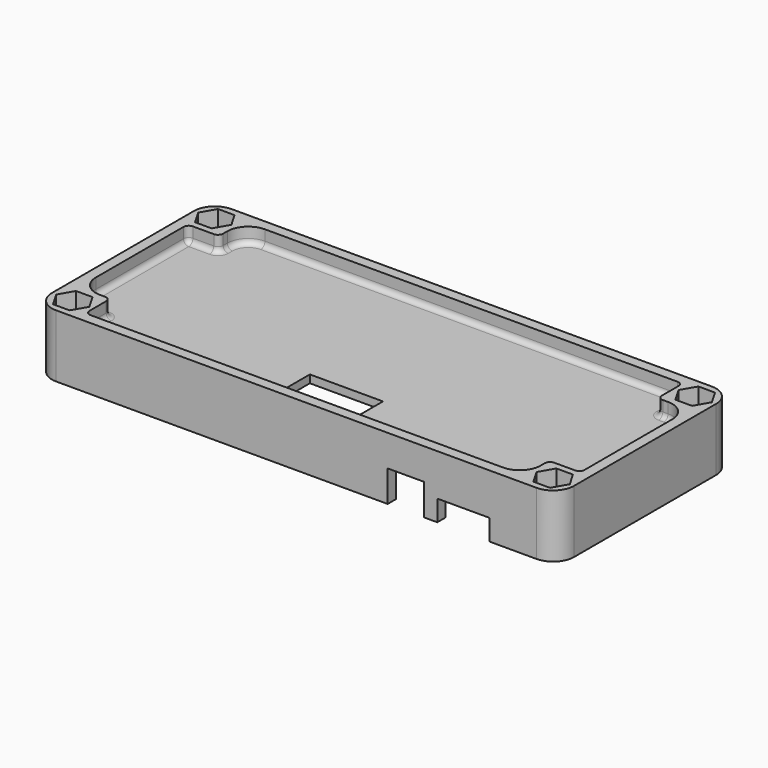
from build123d import *

# Parameters (mm, degrees)
SKETCH_W        = 100
SKETCH_H        = 42
PAD_DEPTH       = 12
POCKET_DEPTH    = 3
POCKET001_DEPTH = 7.5
SKETCH002_W     = 14
SKETCH002_H     = 7
POCKET002_DEPTH = 5
SKETCH004_W     = 7
SKETCH004_H     = 6
POCKET003_DEPTH = 5
SKETCH005_W     = 10
SKETCH005_H     = 4
POCKET004_DEPTH = 5
FILLET_R        = 4
FILLET001_R     = 4
FILLET002_R     = 1
FILLET003_R     = 1
FILLET004_R     = 4
FILLET005_R     = 1
FILLET006_R     = 1


with BuildPart() as part:
    # Sketch → Pad (new body)
    with BuildSketch(Plane.XY):
        Rectangle(SKETCH_W, SKETCH_H)
        Polygon((-44.412287, 14.25), (-42.824574, 17), (-44.412287, 19.75), (-47.587713, 19.75), (-49.175426, 17), (-47.587713, 14.25), align=None, mode=Mode.SUBTRACT)
        Polygon((-44.412287, -19.75), (-42.824574, -17), (-44.412287, -14.25), (-47.587713, -14.25), (-49.175426, -17), (-47.587713, -19.75), align=None, mode=Mode.SUBTRACT)
        Polygon((49.175426, 17), (47.587713, 19.75), (44.412287, 19.75), (42.824574, 17), (44.412287, 14.25), (47.587713, 14.25), align=None, mode=Mode.SUBTRACT)
        Polygon((47.587713, -19.75), (49.175426, -17), (47.587713, -14.25), (44.412287, -14.25), (42.824574, -17), (44.412287, -19.75), align=None, mode=Mode.SUBTRACT)
    extrude(amount=PAD_DEPTH)

    # Sketch001 → Pocket (cut)
    with BuildSketch(Plane.XY.offset(12)):
        Polygon((-48, 13), (-48, -13), (-42, -13), (-42, -19), (42, -19), (42, -13), (48, -13), (48, 13), (42, 13), (42, 19), (-42, 19), (-42, 13), align=None)
    extrude(amount=-POCKET_DEPTH, mode=Mode.SUBTRACT)

    # Sketch003 → Pocket001 (cut)
    with BuildSketch(Plane(origin=(0, 0, 0), x_dir=(1, 0, 0), z_dir=(0, 0, -1))):
        Polygon((-48, 13), (-48, -13), (-42, -13), (-42, -19), (42, -19), (42, -13), (48, -13), (48, 13), (42, 13), (42, 19), (-42, 19), (-42, 13), align=None)
    extrude(amount=-POCKET001_DEPTH, mode=Mode.SUBTRACT)

    # Sketch002 → Pocket002 (cut)
    with BuildSketch(Plane.XY.offset(9)):
        with Locations((0, -12.5)):
            Rectangle(SKETCH002_W, SKETCH002_H)
    extrude(amount=-POCKET002_DEPTH, mode=Mode.SUBTRACT)

    # Sketch004 → Pocket003 (cut)
    with BuildSketch(Plane.XZ.offset(21)):
        with Locations((21, 3)):
            Rectangle(SKETCH004_W, SKETCH004_H)
    extrude(amount=-POCKET003_DEPTH, mode=Mode.SUBTRACT)

    # Sketch005 → Pocket004 (cut)
    with BuildSketch(Plane.XZ.offset(21)):
        with Locations((32, 2)):
            Rectangle(SKETCH005_W, SKETCH005_H)
    extrude(amount=-POCKET004_DEPTH, mode=Mode.SUBTRACT)

    # Fillet
    fillet_edges = [part.edges().sort_by_distance(p)[0] for p in [
        (50, -21, 6),
        (50, 21, 6),
        (-50, -21, 6),
        (-50, 21, 6),
    ]]
    fillet(fillet_edges, radius=FILLET_R)

    # Fillet001
    fillet001_edges = [part.edges().sort_by_distance(p)[0] for p in [
        (-42, 19, 10.5),
        (48, 13, 10.5),
        (42, -19, 10.5),
        (-48, -13, 10.5),
    ]]
    fillet(fillet001_edges, radius=FILLET001_R)

    # Fillet002
    fillet002_edges = [part.edges().sort_by_distance(p)[0] for p in [
        (42, 19, 10.5),
        (-42, 13, 10.5),
        (42, 13, 10.5),
        (48, -13, 10.5),
        (42, -13, 10.5),
        (-42, -19, 10.5),
        (-42, -13, 10.5),
        (-48, 13, 10.5),
    ]]
    fillet(fillet002_edges, radius=FILLET002_R)

    # Fillet003
    fillet003_edges = [part.edges().sort_by_distance(p)[0] for p in [
        (42, 16, 9),
        (41.707107, 18.707107, 9),
        (1.5, 19, 9),
        (-40.828427, 17.828427, 9),
        (-42, 14.5, 9),
        (-42.292893, 13.292893, 9),
        (-45, 13, 9),
        (-47.707107, 12.707107, 9),
        (-48, 1.5, 9),
        (-46.828427, -11.828427, 9),
        (-43.5, -13, 9),
        (-42.292893, -13.292893, 9),
        (-42, -16, 9),
        (-41.707107, -18.707107, 9),
        (-1.5, -19, 9),
        (40.828427, -17.828427, 9),
        (42.292893, -13.292893, 9),
        (45, -13, 9),
        (42, -14.5, 9),
        (47.707107, -12.707107, 9),
        (48, -1.5, 9),
        (46.828427, 11.828427, 9),
        (43.5, 13, 9),
        (42.292893, 13.292893, 9),
    ]]
    fillet(fillet003_edges, radius=FILLET003_R)

    # Fillet004
    fillet004_edges = [part.edges().sort_by_distance(p)[0] for p in [
        (-42, 13, 3.75),
        (-42, -13, 3.75),
        (42, 13, 3.75),
        (42, -13, 3.75),
    ]]
    fillet(fillet004_edges, radius=FILLET004_R)

    # Fillet005
    fillet005_edges = [part.edges().sort_by_distance(p)[0] for p in [
        (42, -19, 3.75),
        (48, -13, 3.75),
        (48, 13, 3.75),
        (42, 19, 3.75),
        (-42, 19, 3.75),
        (-48, 13, 3.75),
        (-42, -19, 3.75),
        (-48, -13, 3.75),
    ]]
    fillet(fillet005_edges, radius=FILLET005_R)

    # Fillet006
    fillet006_edges = [part.edges().sort_by_distance(p)[0] for p in [
        (0, -19, 7.5),
        (-41.707107, -18.707107, 7.5),
        (-42, -17.5, 7.5),
        (-43.171573, -14.171573, 7.5),
        (-46.5, -13, 7.5),
        (-47.707107, -12.707107, 7.5),
        (-48, 0, 7.5),
        (41.707107, -18.707107, 7.5),
        (42, -17.5, 7.5),
        (43.171573, -14.171573, 7.5),
        (46.5, -13, 7.5),
        (47.707107, -12.707107, 7.5),
        (48, 0, 7.5),
        (47.707107, 12.707107, 7.5),
        (46.5, 13, 7.5),
        (43.171573, 14.171573, 7.5),
        (42, 17.5, 7.5),
        (41.707107, 18.707107, 7.5),
        (0, 19, 7.5),
        (-47.707107, 12.707107, 7.5),
        (-46.5, 13, 7.5),
        (-43.171573, 14.171573, 7.5),
        (-42, 17.5, 7.5),
        (-41.707107, 18.707107, 7.5),
    ]]
    fillet(fillet006_edges, radius=FILLET006_R)


solid = part.part
